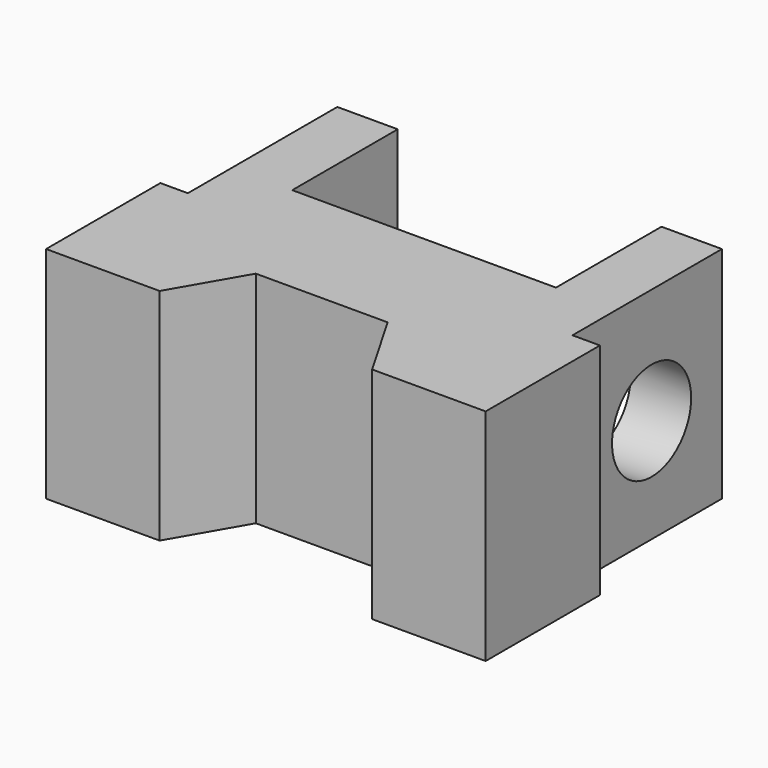
from build123d import *

# Parameters (mm, degrees)
BOX_W                = 4
BOX_H                = 3
BOX_DEPTH            = 2
SKETCH_W             = 1.7
SKETCH_H             = 2
POCKET_DEPTH         = 0.25
SKETCH001_W          = 1.7
SKETCH001_H          = 2
POCKET001_DEPTH      = 0.25
PRISM_DEPTH          = 2
SKETCH003_R          = 0.45
POCKET002_DEPTH      = 5
BOX001_W             = 2.4
BOX001_H             = 1.2
BOX001_DEPTH         = 2
SKETCH004_R          = 0.45
POCKET003_DEPTH      = 0.001
POCKET003_DEPTH_BACK = -4.001


with BuildPart() as part:
    # Box → Box (join)
    with BuildSketch(Plane.XY):
        with Locations((2, 1.5)):
            Rectangle(BOX_W, BOX_H)
    extrude(amount=BOX_DEPTH)

    # Sketch → Pocket (cut, symmetric)
    with BuildSketch(Plane.YZ):
        with Locations((2.15, 1)):
            Rectangle(SKETCH_W, SKETCH_H)
    extrude(amount=POCKET_DEPTH, both=True, mode=Mode.SUBTRACT)

    # Sketch001 (on Face8 of Pocket) → Pocket001 (cut, symmetric)
    with BuildSketch(Plane.YZ.offset(4)):
        with Locations((2.15, 1)):
            Rectangle(SKETCH001_W, SKETCH001_H)
    extrude(amount=POCKET001_DEPTH, both=True, mode=Mode.SUBTRACT)

    # Prism → Prism (cut)
    with BuildSketch(Plane(origin=(2, -0.40392, 2), x_dir=(1, 0, 0), z_dir=(0, 0, -1))):
        Polygon((1.2, 0), (0.6, 1.03923), (-0.6, 1.03923), (-1.2, 0), (-0.6, -1.03923), (0.6, -1.03923), align=None)
    extrude(amount=PRISM_DEPTH, mode=Mode.SUBTRACT)

    # Sketch003 (on Face8 of Prism) → Pocket002 (cut)
    with BuildSketch(Plane(origin=(3.75, -0.40392, 2), x_dir=(0, -1, 0), z_dir=(1, 0, 0))):
        with Locations((2.15, 1)):
            Circle(SKETCH003_R)
    extrude(amount=-POCKET002_DEPTH, mode=Mode.SUBTRACT)

    # Box001 → Box001 (cut)
    with BuildSketch(Plane(origin=(0.8, 1.8, 0), x_dir=(1, 0, 0), z_dir=(0, 0, 1))):
        with Locations((1.2, 0.6)):
            Rectangle(BOX001_W, BOX001_H)
    extrude(amount=BOX001_DEPTH, mode=Mode.SUBTRACT)

    # Sketch004 → Pocket003 (cut, two sides)
    with BuildSketch(Plane.YZ) as pocket003_sk:
        with Locations((2.2, 0.95)):
            Circle(SKETCH004_R)
    extrude(amount=-POCKET003_DEPTH, mode=Mode.SUBTRACT)
    extrude(pocket003_sk.sketch, amount=-POCKET003_DEPTH_BACK, mode=Mode.SUBTRACT)


solid = part.part
